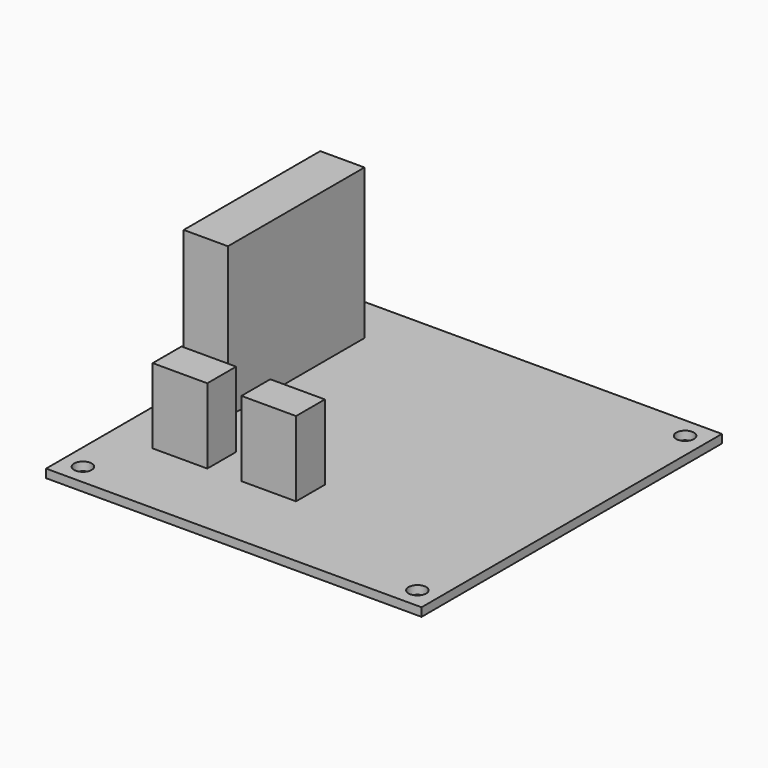
from build123d import *

# Parameters (mm, degrees)
F0_W     = 69.85
F0_H     = 69.85
F0_R     = 1.6383
F1_DEPTH = 1.5748
F2_W     = 8.2296
F2_H     = 31.75
F3_DEPTH = 27.94
F4_W     = 10.16
F4_H     = 6.7056
F5_DEPTH = 13.97


with BuildPart() as f1:
    # F0 (on Top) → F1 (new body)
    with BuildSketch(Plane.XY):
        Rectangle(F0_W, F0_H)
        with Locations((-31.115, -31.115)):
            Circle(F0_R, mode=Mode.SUBTRACT)
        with Locations((31.115, -31.115)):
            Circle(F0_R, mode=Mode.SUBTRACT)
        with Locations((-31.115, 31.115)):
            Circle(F0_R, mode=Mode.SUBTRACT)
        with Locations((31.115, 31.115)):
            Circle(F0_R, mode=Mode.SUBTRACT)
    extrude(amount=F1_DEPTH)

    # F2 (on face) → F3 (join)
    with BuildSketch(Plane.XY.offset(1.5748)):
        with Locations((-28.575, 10.16)):
            Rectangle(F2_W, F2_H)
    extrude(amount=F3_DEPTH)

    # F4 (on face) → F5 (join)
    with BuildSketch(Plane.XY.offset(1.5748)):
        with Locations((-21.717, -16.9418)):
            Rectangle(F4_W, F4_H)
        with Locations((-5.207, -16.9418)):
            Rectangle(F4_W, F4_H)
    extrude(amount=F5_DEPTH)


solid = f1.part
